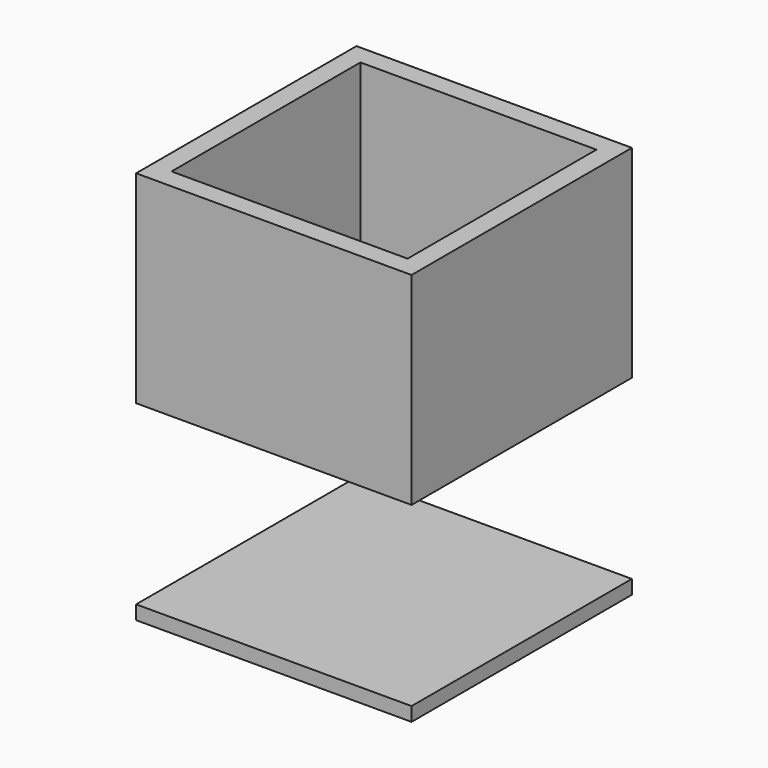
from build123d import *

# Parameters (mm, degrees)
F0_W     = 140
F0_H     = 140
F1_DEPTH = 200
F3_W     = 140
F3_H     = 90
F4_DEPTH = 190
F5_W     = 120
F5_H     = 120
F6_DEPTH = 90


with BuildPart() as f1:
    # F0 (on Top) → F1 (new body)
    with BuildSketch(Plane.XY):
        Rectangle(F0_W, F0_H)
    extrude(amount=F1_DEPTH)

    # F3 (on face) → F4 (cut)
    with BuildSketch(Plane(origin=(0, 70, 0), x_dir=(-1, 0, 0), z_dir=(0, 1, 0))):
        with Locations((0, 52.08874)):
            Rectangle(F3_W, F3_H)
    extrude(amount=-F4_DEPTH, mode=Mode.SUBTRACT)

    # F5 (on face) → F6 (cut)
    with BuildSketch(Plane.XY.offset(200)):
        Rectangle(F5_W, F5_H)
    extrude(amount=-F6_DEPTH, mode=Mode.SUBTRACT)


solid = f1.part
